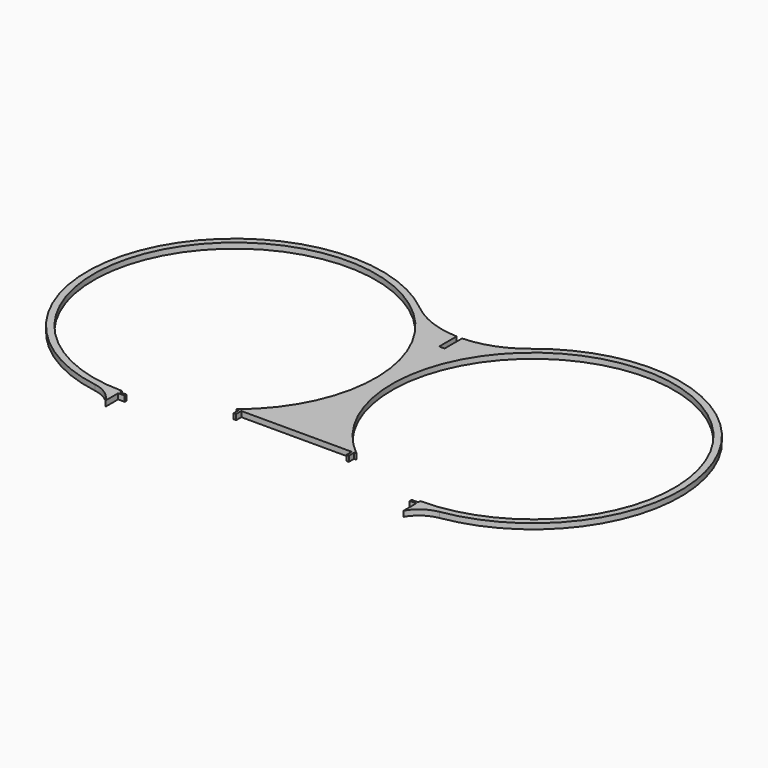
from build123d import *

# Parameters (mm, degrees)
PAD_DEPTH = 5


with BuildPart() as part:
    # Sketch → Pad (new body)
    with BuildSketch(Plane.XY):
        with BuildLine():
            ThreePointArc((136.38997, 21), (179.654002, 271.532264), (54.907669, 50))
            Line((52.707669, 50), (54.907669, 50))
            Line((52.707669, 44), (52.707669, 50))
            Line((50.507669, 44), (52.707669, 44))
            Line((50.507669, 50), (50.507669, 44))
            Line((-50.507669, 50), (50.507669, 50))
            Line((-50.507669, 44), (-50.507669, 50))
            Line((-52.707669, 44), (-50.507669, 44))
            Line((-52.707669, 50), (-52.707669, 44))
            Line((-54.907669, 50), (-52.707669, 50))
            ThreePointArc((-54.907669, 50), (-179.654002, 271.532264), (-136.38997, 21))
            Line((-136.38997, 21), (-136.38997, 18.7))
            Line((-136.38997, 18.7), (-130.38997, 18.7))
            Line((-130.38997, 18.7), (-130.38997, 16.5))
            Line((-130.38997, 16.5), (-136.38997, 16.5))
            Line((-136.38997, 16.5), (-136.38997, 2.000139))
            ThreePointArc((-136.38997, 2.000139), (-145.370032, 11.755646), (-157.678116, 16.687428))
            ThreePointArc((-50.75348, 254.353599), (-259.514276, 205.388401), (-157.678116, 16.687428))
            ThreePointArc((-50.75348, 254.353599), (-28.126193, 241.300075), (-2.5, 236.231852))
            Line((-2.5, 216.231852), (-2.5, 236.231852))
            Line((2.5, 216.231852), (-2.5, 216.231852))
            Line((2.5, 236.231852), (2.5, 216.231852))
            ThreePointArc((2.5, 236.231852), (28.126198, 241.300076), (50.753488, 254.353606))
            ThreePointArc((157.678116, 16.687428), (259.514278, 205.388396), (50.753488, 254.353606))
            ThreePointArc((157.678116, 16.687428), (145.370032, 11.755646), (136.38997, 2.000139))
            Line((136.38997, 16.5), (136.38997, 2.000139))
            Line((130.38997, 16.5), (136.38997, 16.5))
            Line((130.38997, 18.7), (130.38997, 16.5))
            Line((136.38997, 18.7), (130.38997, 18.7))
            Line((136.38997, 21), (136.38997, 18.7))
        make_face()
    extrude(amount=PAD_DEPTH)


solid = part.part
